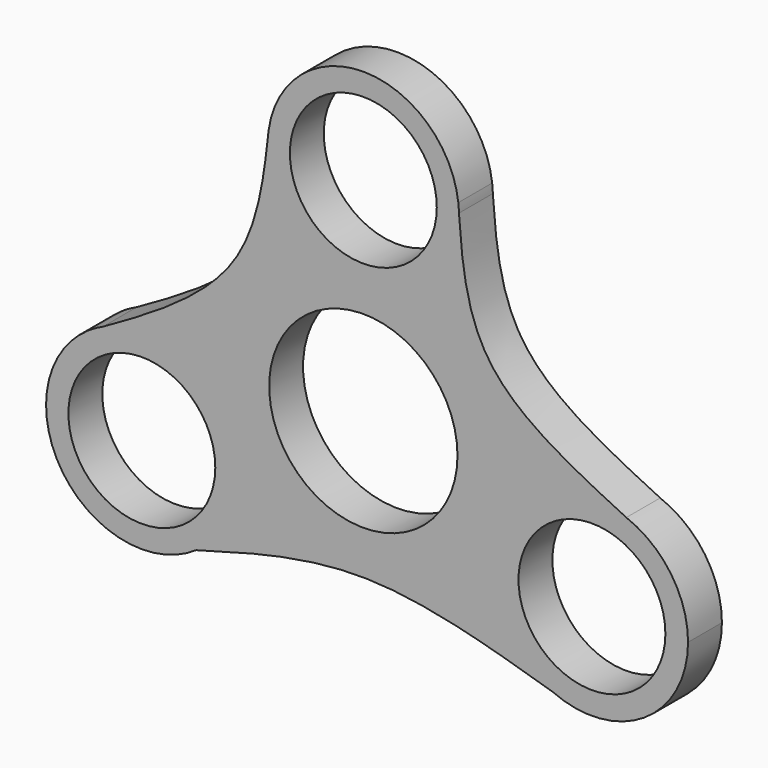
from build123d import *

# Parameters (mm, degrees)
F0_R     = 11.0109
F0_R_2   = 14.1161629055
F1_DEPTH = 6.35


with BuildPart() as f1:
    # F0 (on Front) → F1 (new body)
    with BuildSketch(Plane.XZ):
        with BuildLine():
            add(Edge.make_bspline(
                [(14.2378477878, 44.936459669), (14.2692580265, 44.4830769346), (14.3006366518, 44.0296968618), (14.3328571489, 43.5767591031)],
                knots=[0, 0, 0, 0, 0.0305226673, 0.0305226673, 0.0305226673, 0.0305226673], degree=3))
            ThreePointArc((14.2378477878, 44.936459669), (0.1859137764, 57.5936038827), (-14.1895411716, 45.3051359496))
            add(Edge.make_bspline(
                [(-14.1895411716, 45.3051359496), (-14.2216158391, 45.0234232666), (-14.2536769794, 44.7417099752), (-14.2859418326, 44.4600835103)],
                knots=[0, 0, 0, 0, 0.0190929531, 0.0190929531, 0.0190929531, 0.0190929531], degree=3))
            ThreePointArc((-14.2859418326, 44.4600835103), (-0.6013623419, 28.9346434947), (14.336391997, 43.2584173977))
            ThreePointArc((14.336391997, 43.2584173977), (14.3355082577, 43.4175980628), (14.3328571489, 43.5767591031))
        make_face()
        with Locations((0, 43.2584173977)):
            Circle(F0_R, mode=Mode.SUBTRACT)
        with BuildLine():
            ThreePointArc((14.3328571489, 43.5767591031), (14.3015206028, 44.2577391378), (14.2378477878, 44.936459669))
            add(Edge.make_bspline(
                [(14.2378477878, 44.936459669), (14.2692580265, 44.4830769346), (14.3006366518, 44.0296968618), (14.3328571489, 43.5767591031)],
                knots=[0, 0, 0, 0, 0.0305226673, 0.0305226673, 0.0305226673, 0.0305226673], degree=3))
        make_face()
        with BuildLine():
            add(Edge.make_bspline(
                [(-14.1895411716, 45.3051359496), (-14.2216158391, 45.0234232666), (-14.2536769794, 44.7417099752), (-14.2859418326, 44.4600835103)],
                knots=[0, 0, 0, 0, 0.0190929531, 0.0190929531, 0.0190929531, 0.0190929531], degree=3))
            ThreePointArc((-14.1895411716, 45.3051359496), (-14.2440096703, 44.8833247809), (-14.2859418326, 44.4600835103))
        make_face()
        with BuildLine():
            add(Edge.make_bspline(
                [(14.3328571489, 43.5767591031), (14.8002600895, 37.0062695163), (16.2115652733, 22.8236179544), (31.2555625407, 15.5214679724), (39.4293133759, 11.5620974024)],
                knots=[0.0305226673, 0.0305226673, 0.0305226673, 0.0305226673, 0.4732962362, 1, 1, 1, 1], degree=3))
            ThreePointArc((14.3328571489, 43.5767591031), (14.3355082577, 43.4175980628), (14.336391997, 43.2584173977))
            ThreePointArc((14.336391997, 43.2584173977), (-0.6013623419, 28.9346434947), (-14.2859418326, 44.4600835103))
            add(Edge.make_bspline(
                [(-14.2859418326, 44.4600835103), (-15.0343143138, 37.9278518415), (-16.8442731817, 24.2460870484), (-31.2061924175, 15.6278170074), (-39.061412584, 11.2195897613)],
                knots=[0.0190929531, 0.0190929531, 0.0190929531, 0.0190929531, 0.4619476147, 0.9533331716, 0.9533331716, 0.9533331716, 0.9533331716], degree=3))
            ThreePointArc((-39.061412584, 11.2195897613), (-25.3936507621, 10.1551158407), (-18.8489380989, -1.8909438513))
            ThreePointArc((-18.8489380989, -1.8909438513), (-20.5002656427, -8.5762529664), (-25.0744124588, -13.7238175873))
            add(Edge.make_bspline(
                [(-25.0744124588, -13.7238175873), (-16.8412057321, -11.3905698061), (0.1735884464, -6.5816131812), (18.7761875451, -12.1510294851), (28.3732517974, -15.0335990669)],
                knots=[0, 0, 0, 0, 0.4839699757, 1, 1, 1, 1], degree=3))
            ThreePointArc((28.3732517974, -15.0335990669), (20.9715166849, 3.6392649404), (39.4293133759, 11.5620974024))
        make_face()
        with Locations((0, 11.4961732179)):
            Circle(F0_R_2, mode=Mode.SUBTRACT)
        with BuildLine():
            ThreePointArc((48.6813854206, -1.8909438513), (46.145116247, 6.2727739919), (39.4293133759, 11.5620974024))
            ThreePointArc((39.4293133759, 11.5620974024), (20.9715166849, 3.6392649404), (28.3732517974, -15.0335990669))
            ThreePointArc((28.3732517974, -15.0335990669), (42.1019872984, -13.9858774742), (48.6813854206, -1.8909438513))
        make_face()
        with Locations((34.2746041715, -1.8909438513)):
            Circle(F0_R, mode=Mode.SUBTRACT)
        with BuildLine():
            add(Edge.make_bspline(
                [(-39.061412584, 11.2195897613), (-39.8074219165, 10.8009409398), (-40.5561481429, 10.3834173098), (-41.3048749035, 9.9659258562)],
                knots=[0.9533331716, 0.9533331716, 0.9533331716, 0.9533331716, 1, 1, 1, 1], degree=3))
            ThreePointArc((-39.061412584, 11.2195897613), (-40.2112493235, 10.6430534333), (-41.3048749035, 9.9659258562))
        make_face()
        with BuildLine():
            ThreePointArc((-18.8489380989, -1.8909438513), (-25.3936507621, 10.1551158407), (-39.061412584, 11.2195897613))
            add(Edge.make_bspline(
                [(-39.061412584, 11.2195897613), (-39.8074219165, 10.8009409398), (-40.5561481429, 10.3834173098), (-41.3048749035, 9.9659258562)],
                knots=[0.9533331716, 0.9533331716, 0.9533331716, 0.9533331716, 1, 1, 1, 1], degree=3))
            ThreePointArc((-41.3048749035, 9.9659258562), (-45.0520404312, -10.0061839429), (-25.0744124588, -13.7238175873))
            ThreePointArc((-25.0744124588, -13.7238175873), (-20.5002656427, -8.5762529664), (-18.8489380989, -1.8909438513))
        make_face()
        with Locations((-33.2071557641, -1.8909438513)):
            Circle(F0_R, mode=Mode.SUBTRACT)
    extrude(amount=F1_DEPTH)


solid = f1.part
